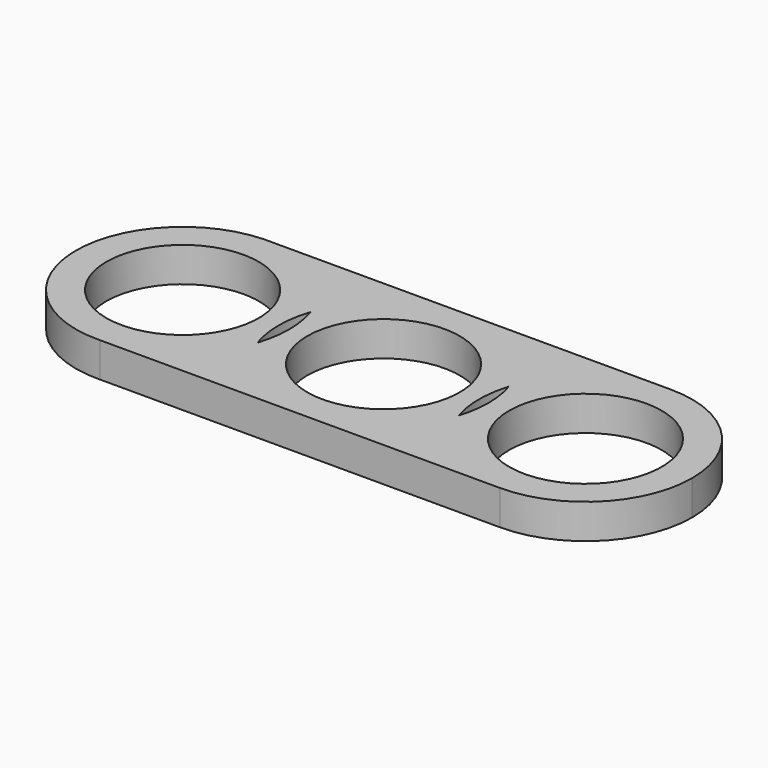
from build123d import *

# Parameters (mm, degrees)
F1_DEPTH = 5
F3_D     = 22
F5_D     = 22
F7_D     = 22


with BuildPart() as f1:
    # F0 (on Top) → F1 (new body)
    with BuildSketch(Plane.XY):
        with BuildLine():
            ThreePointArc((14.439225008, -4.5701776484), (13.7453052389, 0), (14.439225008, 4.5701776484))
            ThreePointArc((14.4392250081, 4.5701776484), (0.116311071, 15.1447751487), (-14.3673285073, 4.7914104535))
            ThreePointArc((-14.3673285073, 4.7914104535), (-13.7951814402, 2.4260059517), (-13.602864396, 0))
            ThreePointArc((-13.602864396, 0), (-13.7951814402, -2.4260059517), (-14.3673285073, -4.7914104535))
            ThreePointArc((-14.3673285073, -4.7914104535), (0.116311071, -15.1447751487), (14.4392250081, -4.5701776484))
        make_face()
        with BuildLine():
            ThreePointArc((-14.3673285073, -4.7914104535), (-15.1452217736, 0), (-14.3673285073, 4.7914104535))
            ThreePointArc((-14.3673285073, 4.7914104535), (-19.7467605123, 12.306770976), (-28.4601684953, 15.3882403981))
            Line((-28.4601684953, 15.3882403981), (-29.545495717, 15.3880823672))
            ThreePointArc((-29.545495717, 15.3880823672), (-44.3915356245, -0.4569880798), (-28.6315344711, -15.3933036246))
            ThreePointArc((-28.6315344711, -15.3933036246), (-19.8154166919, -12.3580970844), (-14.3673285073, -4.7914104535))
        make_face()
        with BuildLine():
            ThreePointArc((29.1410469099, -15.3966274615), (20.0122054796, -12.3977505372), (14.439225008, -4.5701776484))
            ThreePointArc((14.4392250081, -4.5701776484), (0.116311071, -15.1447751487), (-14.3673285073, -4.7914104535))
            ThreePointArc((-14.3673285073, -4.7914104535), (-19.8154166919, -12.3580970844), (-28.6315344711, -15.3933036246))
            Line((-28.6315344711, -15.3933036246), (29.1410469099, -15.3966274615))
        make_face()
        with BuildLine():
            ThreePointArc((-14.3673285073, 4.7914104535), (0.116311071, 15.1447751487), (14.4392250081, 4.5701776484))
            ThreePointArc((14.439225008, 4.5701776484), (20.0116595313, 12.3973484813), (29.1396908737, 15.3966273238))
            Line((29.1396908737, 15.3966273238), (-28.4601684953, 15.3882403981))
            ThreePointArc((-28.4601684953, 15.3882403981), (-19.7467605123, 12.306770976), (-14.3673285073, 4.7914104535))
        make_face()
        with BuildLine():
            ThreePointArc((14.4392250081, 4.5701776484), (14.9676819774, 2.3121935024), (15.1452217736, 0))
            ThreePointArc((15.1452217736, 0), (14.9676819774, -2.3121935024), (14.4392250081, -4.5701776484))
            ThreePointArc((14.439225008, -4.5701776484), (20.0122054796, -12.3977505372), (29.1410469099, -15.3966274615))
            ThreePointArc((29.1410469099, -15.3966274615), (40.0286792416, -10.8873728822), (44.5385602129, 0))
            ThreePointArc((44.5385602129, 0), (40.0281997861, 10.8878522891), (29.1396908737, 15.3966273238))
            ThreePointArc((29.1396908737, 15.3966273238), (20.0116595313, 12.3973484813), (14.439225008, 4.5701776484))
        make_face()
    extrude(amount=F1_DEPTH)

    # F3 (through all)
    with Locations(Plane.XY.offset(5)):
        with Locations((-29.0005914867, 0)):
            Hole(F3_D / 2)

    # F5 (through all)
    with Locations(Plane.XY.offset(5)):
        with Locations((0, 0)):
            Hole(F5_D / 2)

    # F7 (through all)
    with Locations(Plane.XY.offset(5)):
        with Locations((29.1419327259, 0)):
            Hole(F7_D / 2)


solid = f1.part
